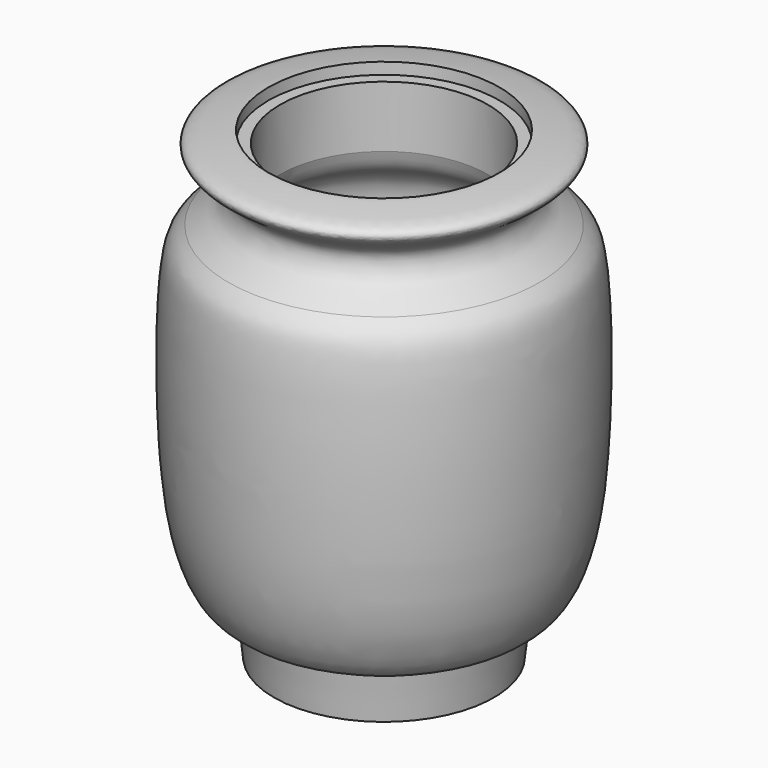
from build123d import *


with BuildPart() as f1:
    # F0 (on Front) → F1 (revolve)
    with BuildSketch(Plane.XZ):
        with BuildLine():
            Line((-50.8, 12.7), (-38.1, 12.7))
            Line((-38.1, 12.7), (-38.1, 31.75))
            add(Edge.make_bspline(
                [(-57.1462656052, 214.6740767193), (-59.1791938691, 206.4657785568), (-62.6950145123, 201.9150055899), (-83.9725929419, 191.1758268104), (-81.7443419875, 161.6263158362), (-84.6868020565, 102.0020472742), (-74.3154134501, 44.0045205115), (-55.8955026796, 36.3552876567), (-50.8060806476, 34.5762356906), (-38.1, 31.75)],
                knots=[0, 0, 0, 0, 0.1043837637, 0.2211461652, 0.359007908, 0.575062369, 0.7772120017, 0.8782352298, 1, 1, 1, 1], degree=3))
            Line((-57.1462656052, 214.6740767193), (-57.1462656052, 248.3894495755))
            Line((-57.1462656052, 248.3894495755), (-63.4962656052, 248.3894495755))
            Line((-63.4962656052, 248.3894495755), (-63.4962656052, 254.7394495755))
            add(Edge.make_bspline(
                [(-85.4716971517, 208.8228464127), (-80.0015813782, 213.1205653137), (-73.0135556419, 216.0344064434), (-68.2733233329, 224.502237829), (-68.6230549029, 235.0751362339), (-89.0700967897, 244.7367613499), (-86.0949749339, 252.3400048982), (-72.4145668479, 253.4873084477), (-67.1334195238, 254.7942135833), (-63.4962656052, 254.7394495755)],
                knots=[0, 0, 0, 0, 0.1675635347, 0.2918399933, 0.423467294, 0.6175313506, 0.7111046629, 0.8649140934, 1, 1, 1, 1], degree=3))
            add(Edge.make_bspline(
                [(-85.4716971517, 208.8228464127), (-91.4470612347, 203.831740195), (-96.0463875097, 197.3166842881), (-98.2411778707, 150.4162443361), (-97.103977767, 106.7877189637), (-93.6453150365, 63.7933945229), (-81.1323445186, 29.4788300178), (-66.8325079994, 26.1898097816), (-62.9937204877, 24.8521815788)],
                knots=[0, 0, 0, 0, 0.1176646929, 0.3118341607, 0.5137872091, 0.710022175, 0.8821086822, 1, 1, 1, 1], degree=3))
            Line((-62.9937204877, 24.8521815788), (-60.452, 0))
            Line((-60.452, 0), (-50.8, 0))
            Line((-50.8, 0), (-50.8, 12.7))
        make_face()
    revolve(axis=Axis((0, 0, 107.6636984944), (0, 0, -1)))


solid = f1.part
